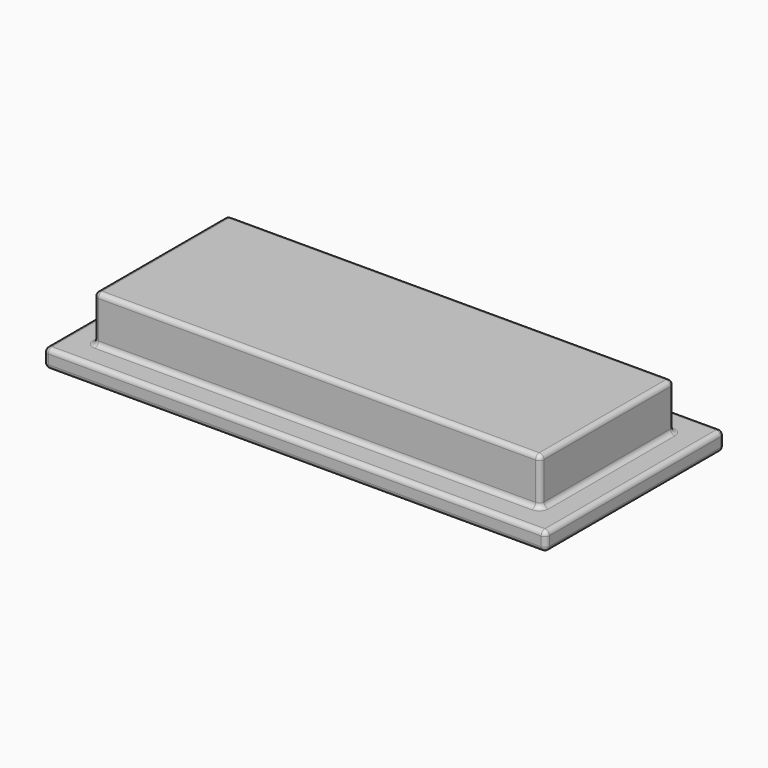
from build123d import *

# Parameters (mm, degrees)
F0_W     = 54
F0_H     = 24
F1_DEPTH = 2
F2_W     = 48
F2_H     = 18
F3_DEPTH = 5
F4_R     = 0.5


with BuildPart() as f1:
    # F0 (on Top) → F1 (new body)
    with BuildSketch(Plane.XY):
        with Locations((-40.409996, 30.125001)):
            Rectangle(F0_W, F0_H)
    extrude(amount=F1_DEPTH)

    # F2 (on face) → F3 (join)
    with BuildSketch(Plane.XY.offset(2)):
        with Locations((-40.409996, 30.125001)):
            Rectangle(F2_W, F2_H)
    extrude(amount=F3_DEPTH)

    # F4
    f4_edges = [f1.edges().sort_by_distance(p)[0] for p in [
        (-40.409996, 39.125001, 2),
        (-40.409996, 39.125001, 7),
        (-64.409996, 39.125001, 4.5),
        (-16.409996, 30.125001, 2),
        (-16.409996, 30.125001, 7),
        (-40.409996, 21.125001, 7),
        (-40.409996, 21.125001, 2),
        (-64.409996, 30.125001, 7),
        (-64.409996, 30.125001, 2),
        (-64.409996, 21.125001, 4.5),
        (-16.409996, 21.125001, 4.5),
        (-16.409996, 39.125001, 4.5),
        (-13.409996, 30.125001, 2),
        (-13.409996, 30.125001, 0),
        (-13.409996, 18.125001, 1),
        (-40.409996, 18.125001, 0),
        (-40.409996, 18.125001, 2),
        (-67.409996, 30.125001, 2),
        (-67.409996, 18.125001, 1),
        (-67.409996, 30.125001, 0),
        (-67.409996, 42.125001, 1),
        (-40.409996, 42.125001, 2),
        (-40.409996, 42.125001, 0),
        (-13.409996, 42.125001, 1),
    ]]
    fillet(f4_edges, radius=F4_R)


solid = f1.part
